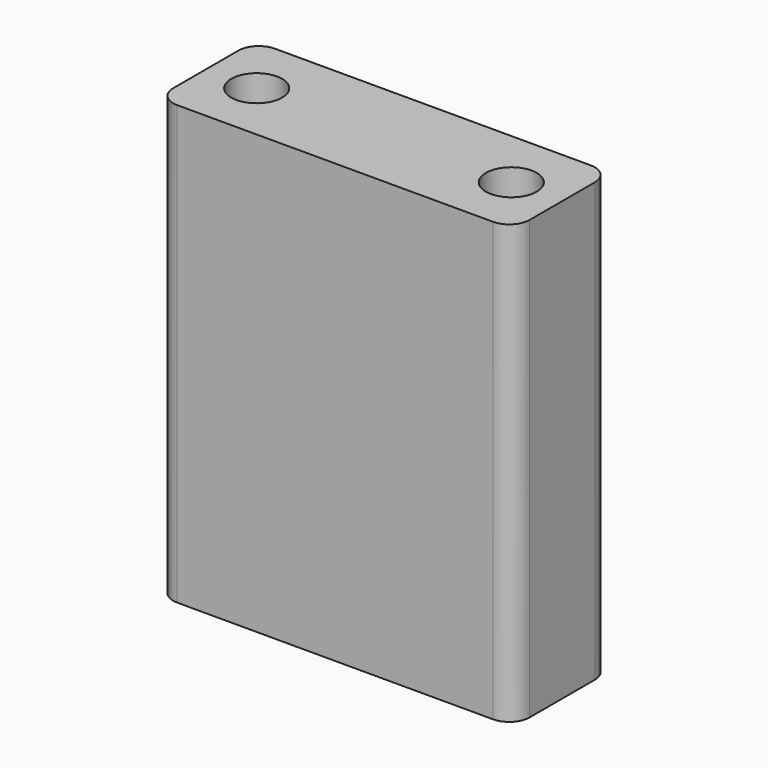
from build123d import *

# Parameters (mm, degrees)
F0_R     = 2.5
F1_DEPTH = 43
F2_R     = 2


with BuildPart() as f1:
    # F0 (on Top) → F1 (new body)
    with BuildSketch(Plane.XY):
        Polygon((25, 6), (0, 6), (-5, 6), (-5, 0), (-5, -6), (0, -6), (25, -6), (30, -6), (30, 0), (30, 6), align=None)
        Circle(F0_R, mode=Mode.SUBTRACT)
        with Locations((25, 0)):
            Circle(F0_R, mode=Mode.SUBTRACT)
    extrude(amount=F1_DEPTH)

    # F2
    f2_edges = [f1.edges().sort_by_distance(p)[0] for p in [
        (-5, -6, 21.5),
        (-5, 6, 21.5),
        (30, -6, 21.5),
        (30, 6, 21.5),
    ]]
    fillet(f2_edges, radius=F2_R)


solid = f1.part
